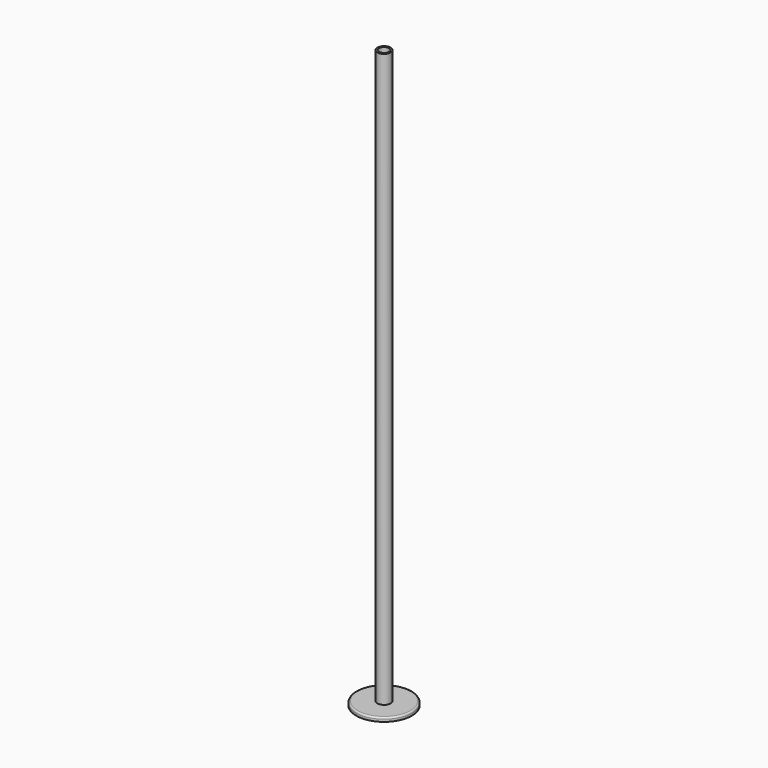
from build123d import *

# Parameters (mm, degrees)
F0_R     = 44.45
F1_DEPTH = 6.35
F2_R     = 2.54
F3_R     = 10.668
F3_R_2   = 7.874
F4_DEPTH = 914.4


with BuildPart() as f1:
    # F0 (on Top) → F1 (new body)
    with BuildSketch(Plane.XY):
        with Locations((-10.725561, -254)):
            Circle(F0_R)
    extrude(amount=F1_DEPTH)

    # F2
    f2_edges = [f1.edges().sort_by_distance(p)[0] for p in [
        (-55.175561, -254, 6.35),
    ]]
    fillet(f2_edges, radius=F2_R)


with BuildPart() as f4:
    # F3 (on face) → F4 (new body)
    with BuildSketch(Plane.XY.offset(6.35)):
        with Locations((-10.725561, -254)):
            Circle(F3_R)
        with Locations((-10.725561, -254)):
            Circle(F3_R_2, mode=Mode.SUBTRACT)
    extrude(amount=F4_DEPTH)


solid = Compound([f1.part, f4.part])
